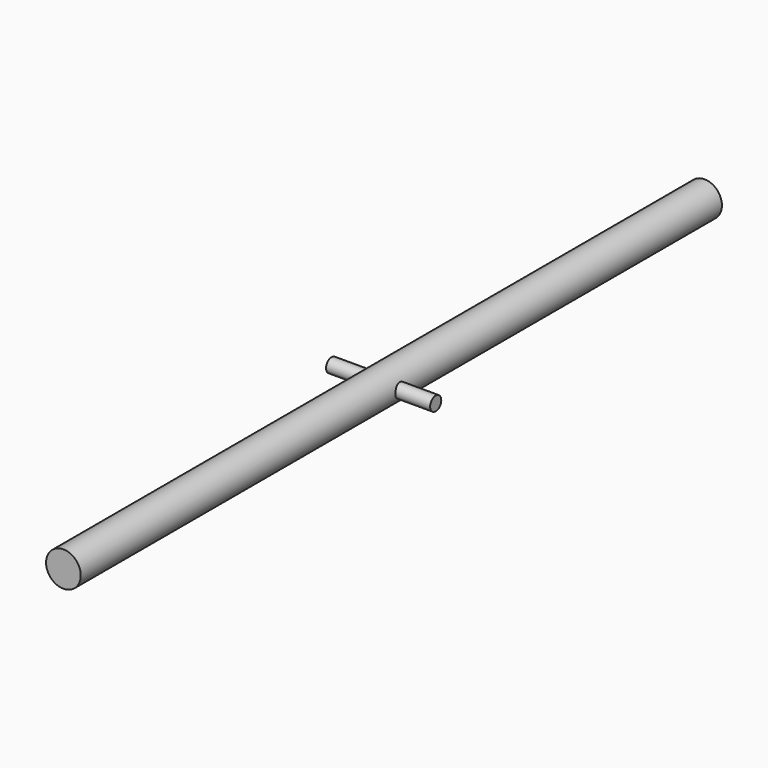
from build123d import *

# Parameters (mm, degrees)
F0_R     = 3.175
F1_DEPTH = 146.6342
F2_R     = 1.27
F3_DEPTH = 9.525


with BuildPart() as f1:
    # F0 (on Front) → F1 (new body)
    with BuildSketch(Plane.XZ):
        Circle(F0_R)
    extrude(amount=F1_DEPTH)

    # F2 (on Right) → F3 (join, symmetric)
    with BuildSketch(Plane.YZ):
        with Locations((-73.392548, 0)):
            Circle(F2_R)
    extrude(amount=F3_DEPTH, both=True)


solid = f1.part
